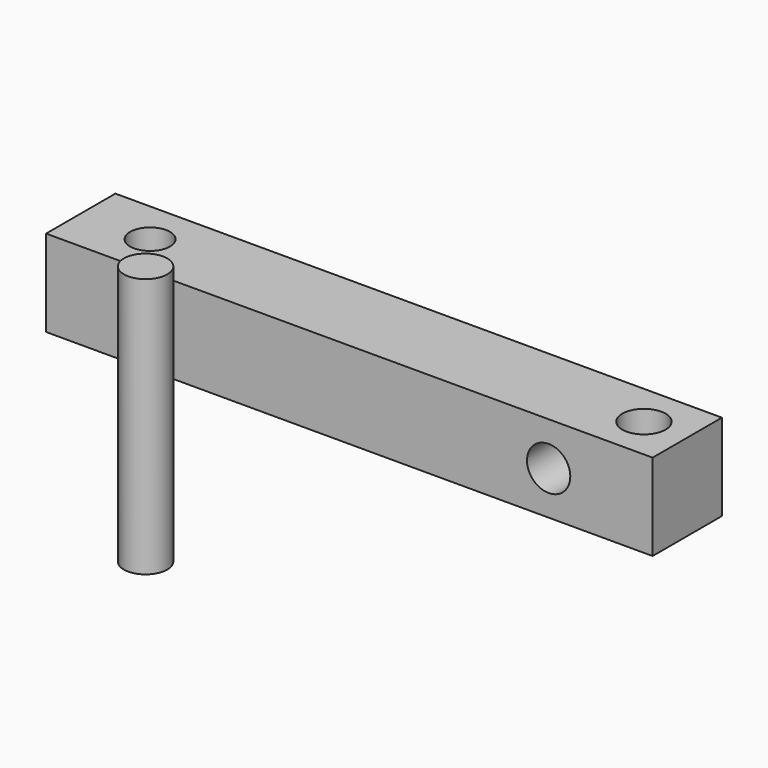
from build123d import *

# Parameters (mm, degrees)
F0_W     = 70
F0_H     = 10
F1_DEPTH = 10
F2_R     = 2.5
F3_DEPTH = 25
F5_D     = 5
F6_D     = 4.6
F7_R     = 2.5
F8_DEPTH = 30


with BuildPart() as f1:
    # F0 (on Top) → F1 (new body)
    with BuildSketch(Plane.XY):
        Rectangle(F0_W, F0_H)
    extrude(amount=F1_DEPTH)

    # F2 (on face) → F3 (cut)
    with BuildSketch(Plane.XZ.offset(5)):
        with Locations((23, 5)):
            Circle(F2_R)
    extrude(amount=-F3_DEPTH, mode=Mode.SUBTRACT)

    # F5 (through all)
    with Locations(Plane.XY.offset(10)):
        with Locations((30, 0)):
            Hole(F5_D / 2)

    # F6 (through all)
    with Locations(Plane.XY.offset(10)):
        with Locations((-27, 0)):
            Hole(F6_D / 2)


with BuildPart() as f8:
    # F7 (on Top) → F8 (new body)
    with BuildSketch(Plane.XY):
        with Locations((0, -34.3930833042)):
            Circle(F7_R)
    extrude(amount=F8_DEPTH)


solid = Compound([f1.part, f8.part])
